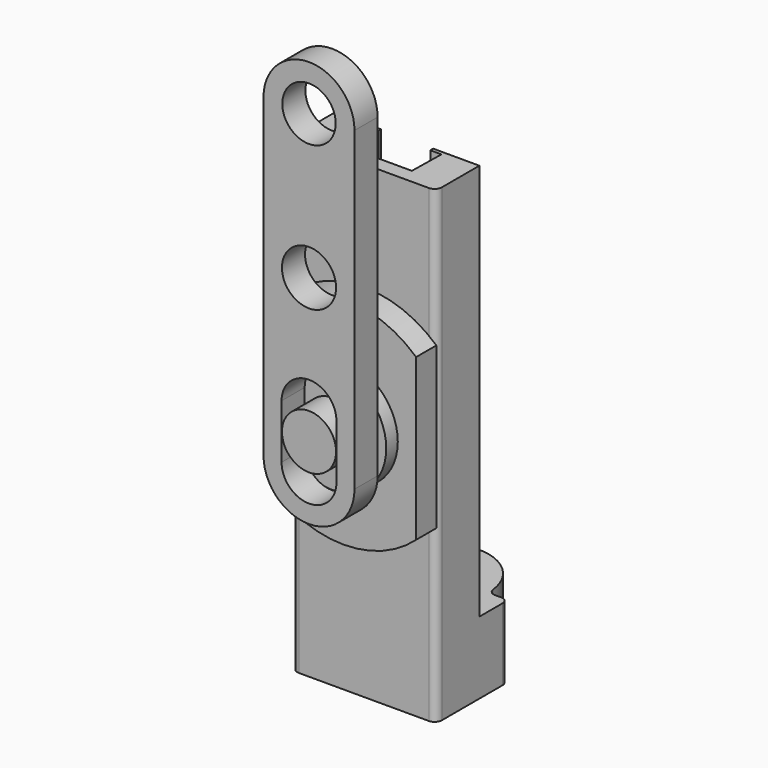
from build123d import *

# Parameters (mm, degrees)
F0_R      = 3.75
F1_DEPTH  = 10
F3_DEPTH  = 55
F5_DEPTH  = 3.5
F6_R      = 7.5
F7_DEPTH  = 2
F9_DEPTH  = 4
F8_R      = 3.75
F8_R_2    = 3.7
F10_DEPTH = 4


with BuildPart() as f1:
    # F0 (on Top) → F1 (new body)
    with BuildSketch(Plane.XY):
        with BuildLine():
            ThreePointArc((8.1891696771, 0), (7.5263017118, 0.2512636909), (7.1965430496, 0.8787878788))
            ThreePointArc((7.1965430496, 0.8787878788), (0, 7.25), (-7.1965430496, 0.8787878788))
            ThreePointArc((-7.1965430496, 0.8787878788), (-7.5263017118, 0.2512636909), (-8.1891696771, 0))
            Line((-8.1891696771, 0), (-9, 0))
            ThreePointArc((-9, 0), (-9.7071067812, -0.2928932188), (-10, -1))
            Line((-10, -1), (-10, -11.5))
            ThreePointArc((-10, -11.5), (-9.7071067812, -12.2071067812), (-9, -12.5))
            Line((-9, -12.5), (9, -12.5))
            ThreePointArc((9, -12.5), (9.7071067812, -12.2071067812), (10, -11.5))
            Line((10, -11.5), (10, -1))
            ThreePointArc((10, -1), (9.7071067812, -0.2928932188), (9, 0))
            Line((9, 0), (8.1891696771, 0))
        make_face()
        Circle(F0_R, mode=Mode.SUBTRACT)
    extrude(amount=F1_DEPTH)

    # F2 (on face) → F3 (join)
    with BuildSketch(Plane.XY.offset(10)):
        with BuildLine():
            Line((10, -5), (3.6, -5))
            Line((3.6, -5), (3.6, -5.5008749347))
            Line((3.6, -5.5008749347), (5.1435338545, -5.5008749347))
            Line((5.1435338545, -5.5008749347), (5.05, -10.5))
            Line((5.05, -10.5), (-5.05, -10.5))
            Line((-5.05, -10.5), (-5.1435338545, -5.5008749347))
            Line((-5.1435338545, -5.5008749347), (-3.6, -5.5008749347))
            Line((-3.6, -5.5008749347), (-3.6, -5))
            Line((-3.6, -5), (-10, -5))
            Line((-10, -5), (-10, -11.5))
            ThreePointArc((-10, -11.5), (-9.7071067812, -12.2071067812), (-9, -12.5))
            Line((-9, -12.5), (9, -12.5))
            ThreePointArc((9, -12.5), (9.7071067812, -12.2071067812), (10, -11.5))
            Line((10, -11.5), (10, -5))
        make_face()
    extrude(amount=F3_DEPTH)


with BuildPart() as f5:
    # F4 (on face) → F5 (new body)
    with BuildSketch(Plane.XZ.offset(12.5)):
        with BuildLine():
            Line((10.0404089317, 23.8559348313), (10.0404089317, 46.1440651687))
            ThreePointArc((10.0404089317, 46.1440651687), (0, 50), (-10.0404089317, 46.1440651687))
            Line((-10.0404089317, 46.1440651687), (-10.0404089317, 23.8559348313))
            ThreePointArc((-10.0404089317, 23.8559348313), (-5.3776864203, 20.9971256963), (0, 20))
            ThreePointArc((0, 20), (5.3776864203, 20.9971256963), (10.0404089317, 23.8559348313))
        make_face()
    extrude(amount=F5_DEPTH)


with BuildPart() as f7:
    # F6 (on face) → F7 (new body)
    with BuildSketch(Plane.XZ.offset(16)):
        with Locations((0, 35)):
            Circle(F6_R)
    extrude(amount=F7_DEPTH)

    # F8 (on face) → F9 (join)
    with BuildSketch(Plane.XZ.offset(18)):
        with BuildLine():
            ThreePointArc((-3.75, 35), (0, 31.25), (3.75, 35))
            ThreePointArc((3.75, 35), (0, 38.75), (-3.75, 35))
        make_face()
    extrude(amount=F9_DEPTH)


with BuildPart() as f10:
    # F8 (on face) → F10 (new body)
    with BuildSketch(Plane.XZ.offset(18)):
        with BuildLine():
            Line((-6.3, 55), (-6.3, 31.25))
            ThreePointArc((-6.3, 31.25), (0, 24.95), (6.3, 31.25))
            Line((6.3, 31.25), (6.3, 55))
            Line((6.3, 55), (6.3, 75))
            ThreePointArc((6.3, 75), (0, 81.3), (-6.3, 75))
            Line((-6.3, 75), (-6.3, 55))
        make_face()
        with BuildLine():
            Line((3.8, 38.75), (3.8, 35))
            Line((3.8, 35), (3.8, 31.25))
            ThreePointArc((3.8, 31.25), (0, 27.45), (-3.8, 31.25))
            Line((-3.8, 31.25), (-3.8, 35))
            Line((-3.8, 35), (-3.8, 38.75))
            ThreePointArc((-3.8, 38.75), (0, 42.55), (3.8, 38.75))
        make_face(mode=Mode.SUBTRACT)
        with Locations((0, 55)):
            Circle(F8_R, mode=Mode.SUBTRACT)
        with Locations((0, 75)):
            Circle(F8_R_2, mode=Mode.SUBTRACT)
    extrude(amount=F10_DEPTH)


solid = Compound([f1.part, f5.part, f7.part, f10.part])
